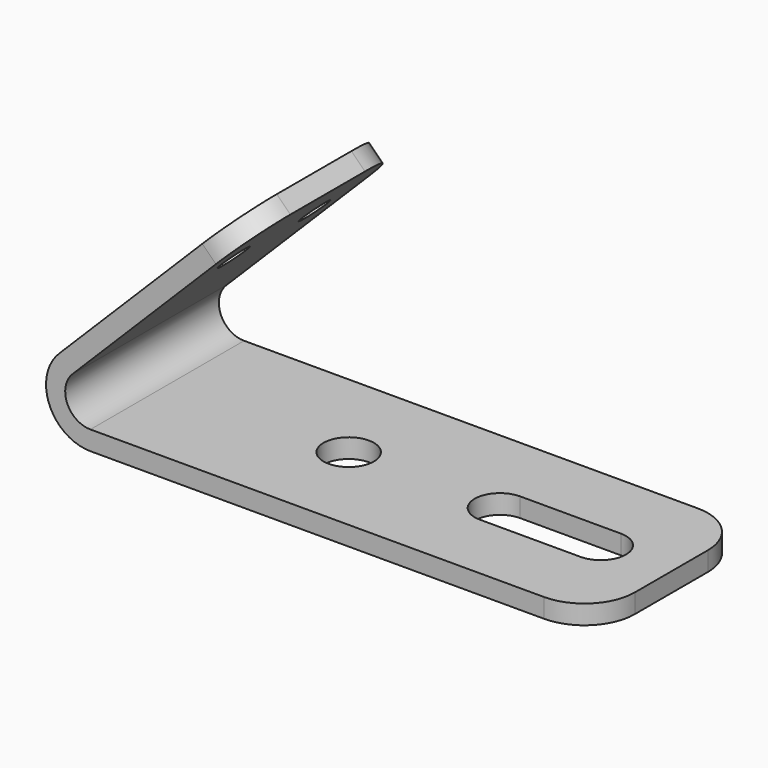
from build123d import *

# Parameters (mm, degrees)
F1_DEPTH = 241.935
F2_R     = 38.1
F3_DEPTH = 157.226
F5_R     = 124.46
F6_R     = 127
F4_R     = 63.5
F7_DEPTH = 1049.02


with BuildPart() as f1:
    # F0 (on Front) → F1 (new body, symmetric)
    with BuildSketch(Plane.XZ):
        with BuildLine():
            ThreePointArc((-333.205928, -63.5), (-391.872278, -24.300398), (-378.107209, 44.901281))
            Line((-378.107209, 44.901281), (70.905598, 493.914087))
            Line((70.905598, 493.914087), (36.780624, 528.03906))
            Line((36.780624, 528.03906), (-412.232182, 79.026254))
            ThreePointArc((-412.232182, 79.026254), (-436.458704, -42.7687), (-333.205928, -111.76))
            Line((-333.205928, -111.76), (936.794072, -111.76))
            Line((936.794072, -111.76), (936.794072, -63.5))
            Line((936.794072, -63.5), (-333.205928, -63.5))
        make_face()
    extrude(amount=F1_DEPTH, both=True)

    # F2 (on face) → F3 (cut)
    with BuildSketch(Plane(origin=(-245.629218, 0, 245.629218), x_dir=(0, -1, 0), z_dir=(-0.707107, 0, 0.707107))):
        with Locations((127.635, 208.887829)):
            Circle(F2_R)
        with Locations((-127.635, 208.887829)):
            Circle(F2_R)
    extrude(amount=-F3_DEPTH, mode=Mode.SUBTRACT)

    # F5
    f5_edges = [f1.edges().sort_by_distance(p)[0] for p in [
        (53.843111, -241.935, 510.976573),
        (53.843111, 241.935, 510.976573),
    ]]
    fillet(f5_edges, radius=F5_R)

    # F6
    f6_edges = [f1.edges().sort_by_distance(p)[0] for p in [
        (936.794072, 241.935, -87.63),
        (936.794072, -241.935, -87.63),
    ]]
    fillet(f6_edges, radius=F6_R)

    # F4 (on face) → F7 (cut)
    with BuildSketch(Plane.XY.offset(-63.5)):
        with Locations((123.994072, 0)):
            Circle(F4_R)
        with BuildLine():
            Line((758.994072, 63.5), (504.994072, 63.5))
            ThreePointArc((504.994072, 63.5), (441.494072, 0), (504.994072, -63.5))
            Line((504.994072, -63.5), (758.994072, -63.5))
            ThreePointArc((758.994072, -63.5), (822.494072, 0), (758.994072, 63.5))
        make_face()
    extrude(amount=-F7_DEPTH, mode=Mode.SUBTRACT)


solid = f1.part
